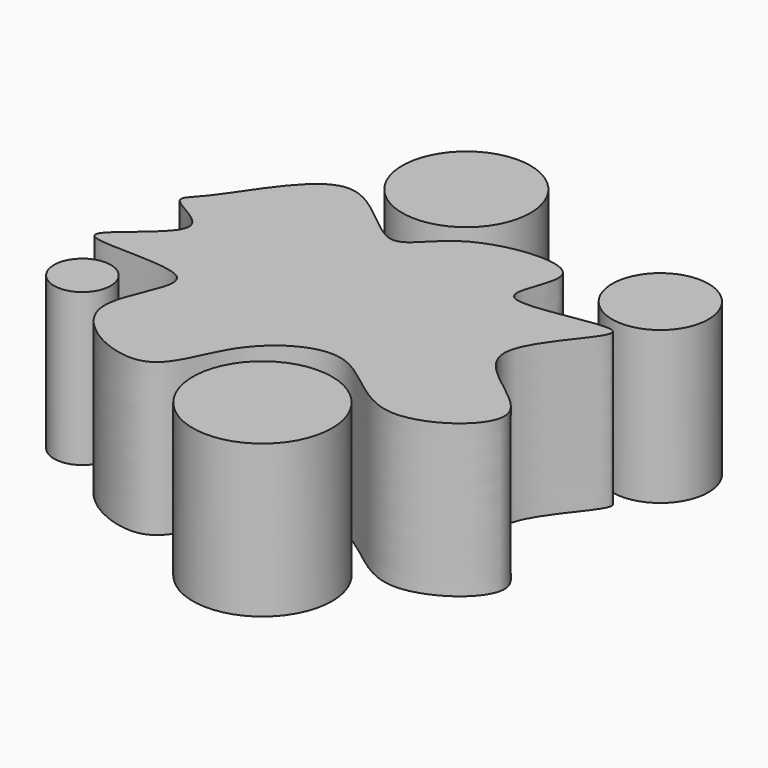
from build123d import *

# Parameters (mm, degrees)
F1_DEPTH = 38.354
F0_R     = 16.1455751074
F0_R_2   = 12.1341062478
F0_R_3   = 17.5429418125
F0_R_4   = 7.1424738491


with BuildPart() as f1:
    # F0 (on Top) → F1 (new body)
    with BuildSketch(Plane.XY):
        with BuildLine():
            add(Edge.make_bspline(
                [(-53.6087155342, 21.7659454793), (-48.7609262204, 27.7731133137), (-35.8030822857, 53.3875295377), (-12.748946189, 21.8082434388), (-5.2554095497, 41.642527542), (30.4511010624, 44.5946533063), (10.3144077447, 17.8056123126), (60.3109111763, 34.6796439458), (19.4442162942, 1.97955556), (63.207976283, -12.1935652274), (29.3794695897, -36.6757068344), (11.8069756637, -9.2765540436), (-11.6593472435, -23.5731384551), (-15.5057993198, -48.8315646659), (-50.4516973959, -31.3637973216), (-24.0171672261, -2.9242308245), (-76.0424731757, -10.7936405522), (-38.9262432097, 9.4238990346), (-60.3154555459, 16.0970134843), (-55.9149678386, 18.9081388042), (-53.6087155342, 21.7659454793)],
                knots=[0, 0, 0, 0, 0.0651270944, 0.1250677843, 0.1730446425, 0.2333563875, 0.2787739773, 0.3398609779, 0.3999813855, 0.4631588985, 0.5221593393, 0.5846644668, 0.6415726973, 0.6965969531, 0.7570687705, 0.8126681083, 0.8736158599, 0.9273347528, 0.9690169061, 1, 1, 1, 1], degree=3))
        make_face()
    extrude(amount=F1_DEPTH)


with BuildPart() as f1b:
    # F0 (on Top) → F1, piece 2 (new body)
    with BuildSketch(Plane.XY):
        with Locations((-15.7198496163, 55.4225444794)):
            Circle(F0_R)
    extrude(amount=F1_DEPTH)


with BuildPart() as f1c:
    # F0 (on Top) → F1, piece 3 (new body)
    with BuildSketch(Plane.XY):
        with Locations((43.9349599183, 41.9195964932)):
            Circle(F0_R_2)
    extrude(amount=F1_DEPTH)


with BuildPart() as f1d:
    # F0 (on Top) → F1, piece 4 (new body)
    with BuildSketch(Plane.XY):
        with Locations((9.6737537533, -40.5088402331)):
            Circle(F0_R_3)
    extrude(amount=F1_DEPTH)


with BuildPart() as f1e:
    # F0 (on Top) → F1, piece 5 (new body)
    with BuildSketch(Plane.XY):
        with Locations((-51.7948865891, -20.3551892191)):
            Circle(F0_R_4)
    extrude(amount=F1_DEPTH)


solid = Compound([f1.part, f1b.part, f1c.part, f1d.part, f1e.part])
